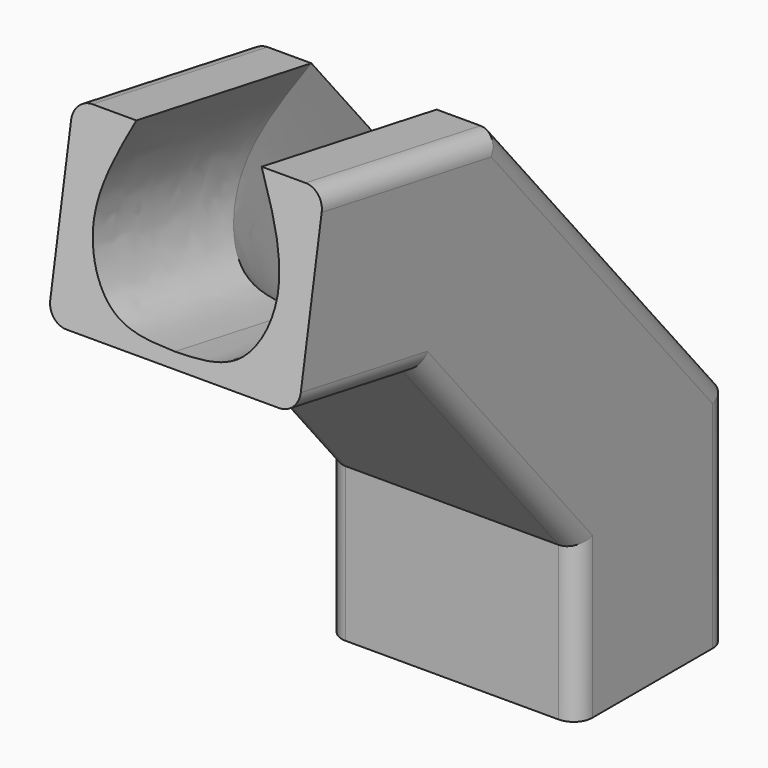
from build123d import *

# Parameters (mm, degrees)
F3_R = 3


with BuildPart() as f2:
    # F2: sweep along a path in F1
    with BuildLine(Plane.YZ) as f2_path:
        Line((0, 0), (0, 30))
        Line((0, 30), (-38.5672565812, 75.9626665871))
        Line((-38.5672565812, 75.9626665871), (-68.1114891716, 81.1721119171))
    # F0 (on Top) → F2 (sweep)
    with BuildSketch(Plane.XY):
        with BuildLine():
            Line((20, -15), (20, 15))
            Line((20, 15), (10, 15))
            add(Edge.make_bspline(
                [(10, 15), (12.3940897704, 9.9797566054), (16.8411980376, 0.6544730759), (11.1651576872, -12.4181404175), (3.6445260134, -12.6084000337), (0, -12.7006005496)],
                knots=[0, 0, 0, 0, 0.3753981471, 0.6973156246, 1, 1, 1, 1], degree=3))
            add(Edge.make_bspline(
                [(-10, 15), (-12.3940897704, 9.9797566054), (-16.8411980376, 0.6544730759), (-11.1651576872, -12.4181404175), (-3.6445260134, -12.6084000337), (0, -12.7006005496)],
                knots=[0, 0, 0, 0, 0.3753981471, 0.6973156246, 1, 1, 1, 1], degree=3))
            Line((-10, 15), (-20, 15))
            Line((-20, 15), (-20, -15))
            Line((-20, -15), (20, -15))
        make_face()
    sweep(path=f2_path.line, transition=Transition.RIGHT)

    # F3
    f3_edges = [f2.edges().sort_by_distance(p)[0] for p in [
        (-20, 15, 17.729777),
        (-20, -7.792962, 62.623147),
        (-20, -48.046345, 92.865485),
        (-20, -15, 12.270223),
        (-20, -30.774295, 43.339519),
        (-20, -58.632401, 64.269294),
        (20, -48.046345, 92.865485),
        (20, -7.792962, 62.623147),
        (20, 15, 17.729777),
        (20, -15, 12.270223),
        (20, -30.774295, 43.339519),
        (20, -58.632401, 64.269294),
    ]]
    fillet(f3_edges, radius=F3_R)


solid = f2.part
